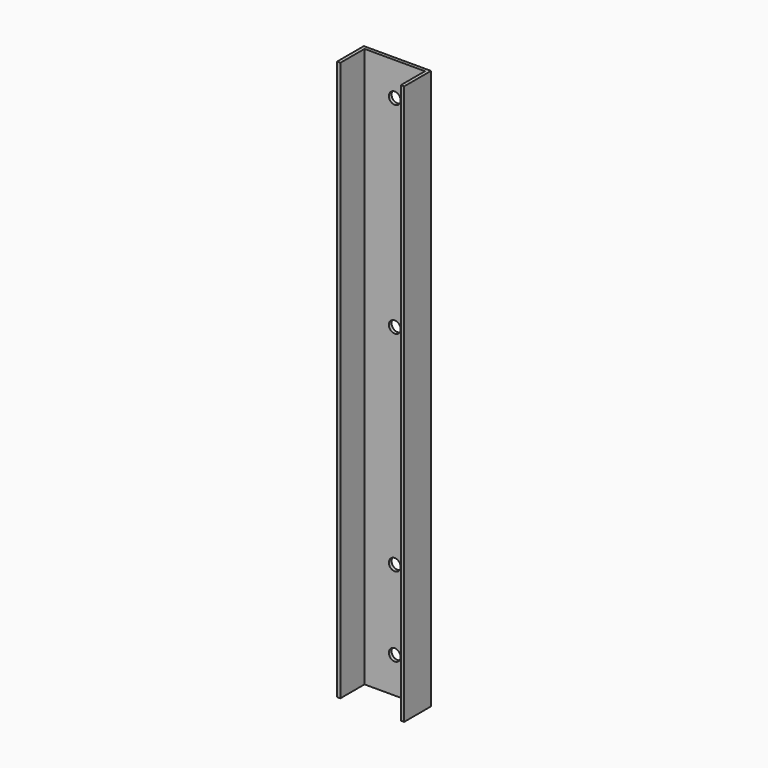
from build123d import *

# Parameters (mm, degrees)
F1_DEPTH = 250
F3_D     = 10.5
F5_D     = 10.5


with BuildPart() as f1:
    # F0 (on Top) → F1 (new body, symmetric)
    with BuildSketch(Plane.XY):
        Polygon((30, 15), (-30, 15), (-30, -15), (-27, -15), (-27, 12), (27, 12), (27, -15), (30, -15), align=None)
    extrude(amount=F1_DEPTH, both=True)

    # F3 (through all)
    with Locations(Plane(origin=(0, 15, 0), x_dir=(-1, 0, 0), z_dir=(0, 1, 0))):
        with Locations((0, -218), (0, -147)):
            Hole(F3_D / 2)

    # F5 (through all)
    with Locations(Plane(origin=(0, 15, 0), x_dir=(-1, 0, 0), z_dir=(0, 1, 0))):
        with Locations((0, 220), (0, 40)):
            Hole(F5_D / 2)


solid = f1.part
